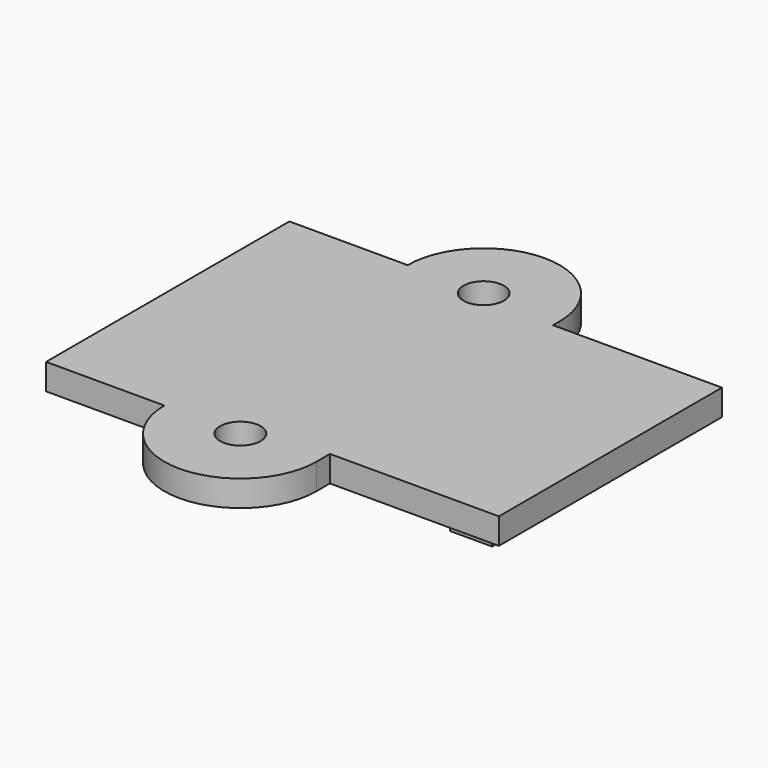
from build123d import *

# Parameters (mm, degrees)
BOX015_W                  = 3
BOX015_H                  = 2.5
BOX015_DEPTH              = 1.5
BOX014_W                  = 3
BOX014_H                  = 2.5
BOX014_DEPTH              = 1.5
CYLINDER009_R             = 1.2
CYLINDER009_DEPTH         = 1.54
CYLINDER010_R             = 1.2
CYLINDER010_DEPTH         = 1.54
CYLINDER011_R             = 4.5
CYLINDER011_DEPTH         = 1.54
CYLINDER012_R             = 4.5
CYLINDER012_DEPTH         = 1.54
BOX013_W                  = 18
BOX013_H                  = 16
BOX013_DEPTH              = 1.54
BOX016_W                  = 16.5
BOX016_H                  = 10
BOX016_DEPTH              = 1.54
FUSION014_ROLL_ANGLE      = 180
FUSION014_PLACEMENT_ANGLE = 90.000069


with BuildPart() as cubo015:
    # Box015 → Box015 (new body)
    with BuildSketch(Plane(origin=(12.5, 21.5, 1.54), x_dir=(1, 0, 0), z_dir=(0, 0, 1))):
        with Locations((1.5, 1.25)):
            Rectangle(BOX015_W, BOX015_H)
    extrude(amount=BOX015_DEPTH)


with BuildPart() as cubo014:
    # Box014 → Box014 (new body)
    with BuildSketch(Plane(origin=(3, 21.5, 1.54), x_dir=(1, 0, 0), z_dir=(0, 0, 1))):
        with Locations((1.5, 1.25)):
            Rectangle(BOX014_W, BOX014_H)
    extrude(amount=BOX014_DEPTH)


with BuildPart() as cilindro008:
    # Cylinder009 → Cylinder009 (new body)
    with BuildSketch(Plane(origin=(0, 11.5, 0), x_dir=(1, 0, 0), z_dir=(0, 0, 1))):
        Circle(CYLINDER009_R)
    extrude(amount=CYLINDER009_DEPTH)


with BuildPart() as cilindro009:
    # Cylinder010 → Cylinder010 (new body)
    with BuildSketch(Plane(origin=(18, 11.5, 0), x_dir=(1, 0, 0), z_dir=(0, 0, 1))):
        Circle(CYLINDER010_R)
    extrude(amount=CYLINDER010_DEPTH)


with BuildPart() as cilindro010:
    # Cylinder011 → Cylinder011 (new body)
    with BuildSketch(Plane(origin=(0, 11.5, 0), x_dir=(1, 0, 0), z_dir=(0, 0, 1))):
        Circle(CYLINDER011_R)
    extrude(amount=CYLINDER011_DEPTH)


with BuildPart() as cilindro011:
    # Cylinder012 → Cylinder012 (new body)
    with BuildSketch(Plane(origin=(18, 11.5, 0), x_dir=(1, 0, 0), z_dir=(0, 0, 1))):
        Circle(CYLINDER012_R)
    extrude(amount=CYLINDER012_DEPTH)


with BuildPart() as cubo013:
    # Box013 → Box013 (new body)
    with BuildSketch(Plane.XY):
        with Locations((9, 8)):
            Rectangle(BOX013_W, BOX013_H)
    extrude(amount=BOX013_DEPTH)


with BuildPart() as sensormodel:
    # Box016 → Box016 (new body)
    with BuildSketch(Plane(origin=(1, 16, 0), x_dir=(1, 0, 0), z_dir=(0, 0, 1))):
        with Locations((8.25, 5)):
            Rectangle(BOX016_W, BOX016_H)
    extrude(amount=BOX016_DEPTH)

    # Fusion011: union Cubo013
    add(cubo013.part)

    # Fusion012: union Cilindro011
    add(cilindro011.part)

    # Fusion013: union Cilindro010
    add(cilindro010.part)

    # Cut013: cut Cilindro009
    add(cilindro009.part, mode=Mode.SUBTRACT)

    # Cut014: cut Cilindro008
    add(cilindro008.part, mode=Mode.SUBTRACT)

    # Fusion014: union Cubo015, Cubo014
    add(cubo015.part)
    add(cubo014.part)


with BuildPart() as sensormodel_1:
    # Fusion014 roll: moved
    add(sensormodel.part.rotate(Axis((0, 0, 0), (1, 0, 0)), FUSION014_ROLL_ANGLE))


with BuildPart() as sensormodel_2:
    # Fusion014 placement: moved
    add(sensormodel_1.part.moved(Location((-22.790785, -25.673595, 18.5))).rotate(Axis((-22.790785, -25.673595, 18.5), (0, 0, 1)), FUSION014_PLACEMENT_ANGLE))


solid = sensormodel_2.part
